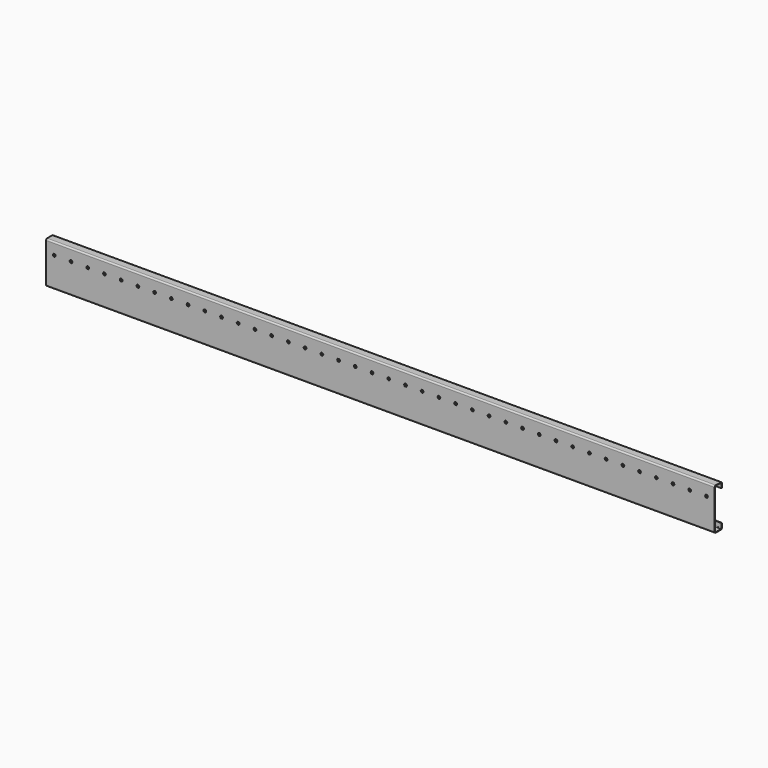
from build123d import *

# Parameters (mm, degrees)
F1_DEPTH = 1523.20625
F3_D     = 10.3124
F3_DEPTH = 38.1
F5_DEPTH = 3.175


with BuildPart() as f1:
    # F0 (on Right) → F1 (new body, symmetric)
    with BuildSketch(Plane.YZ):
        with BuildLine():
            Line((17.98066, 89.41816), (17.98066, 69.85))
            Line((17.98066, 69.85), (20.6375, 69.85))
            Line((20.6375, 69.85), (20.6375, 88.9))
            ThreePointArc((20.6375, 88.9), (18.777628, 93.390128), (14.2875, 95.25))
            Line((14.2875, 95.25), (-14.2875, 95.25))
            ThreePointArc((-14.2875, 95.25), (-18.777628, 93.390128), (-20.6375, 88.9))
            Line((-20.6375, 88.9), (-20.6375, -88.9))
            ThreePointArc((-20.6375, -88.9), (-18.777628, -93.390128), (-14.2875, -95.25))
            Line((-14.2875, -95.25), (14.2875, -95.25))
            ThreePointArc((14.2875, -95.25), (18.777628, -93.390128), (20.6375, -88.9))
            Line((20.6375, -88.9), (20.6375, -69.85))
            Line((20.6375, -69.85), (17.98066, -69.85))
            Line((17.98066, -69.85), (17.98066, -89.41816))
            ThreePointArc((17.98066, -89.41816), (17.050724, -91.663224), (14.80566, -92.59316))
            Line((14.80566, -92.59316), (-14.80566, -92.59316))
            ThreePointArc((-14.80566, -92.59316), (-17.050724, -91.663224), (-17.98066, -89.41816))
            Line((-17.98066, -89.41816), (-17.98066, 89.41816))
            ThreePointArc((-17.98066, 89.41816), (-17.050724, 91.663224), (-14.80566, 92.59316))
            Line((-14.80566, 92.59316), (14.80566, 92.59316))
            ThreePointArc((14.80566, 92.59316), (17.050724, 91.663224), (17.98066, 89.41816))
        make_face()
    extrude(amount=F1_DEPTH, both=True)

    # F3
    with Locations(Plane(origin=(0, 0, -95.25), x_dir=(1, 0, 0), z_dir=(0, 0, -1))):
        with Locations((-1447.8, 0), (-1371.6, 0), (-1295.4, 0), (-914.4, 0), (-838.2, 0), (-762, 0), (-685.8, 0), (-609.6, 0), (-533.4, 0), (-1219.2, 0), (-990.6, 0), (-1066.8, 0), (-1143, 0), (457.2, 0), (381, 0), (762, 0), (304.8, 0), (1447.8, 0), (228.6, 0), (1371.6, 0), (152.4, 0), (1295.4, 0), (76.2, 0), (0, 0), (-76.2, 0), (1219.2, 0), (685.8, 0), (-152.4, 0), (1143, 0), (609.6, 0), (-228.6, 0), (533.4, 0), (1066.8, 0), (-304.8, 0), (990.6, 0), (-381, 0), (914.4, 0), (-457.2, 0), (838.2, 0)):
            Hole(F3_D / 2, depth=F3_DEPTH)

    # F4 (on face) → F5 (cut)
    with BuildSketch(Plane.XZ.offset(20.6375)):
        Polygon((-1489.337038, 47.228125), (-1492.774077, 41.275), (-1489.337038, 35.321875), (-1482.462962, 35.321875), (-1479.025923, 41.275), (-1482.462962, 47.228125), align=None)
        Polygon((-1413.137038, 35.321875), (-1406.262962, 35.321875), (-1402.825923, 41.275), (-1406.262962, 47.228125), (-1413.137038, 47.228125), (-1416.574077, 41.275), align=None)
        Polygon((-1336.937038, 35.321875), (-1330.062962, 35.321875), (-1326.625923, 41.275), (-1330.062962, 47.228125), (-1336.937038, 47.228125), (-1340.374077, 41.275), align=None)
        Polygon((-1260.737038, 35.321875), (-1253.862962, 35.321875), (-1250.425923, 41.275), (-1253.862962, 47.228125), (-1260.737038, 47.228125), (-1264.174077, 41.275), align=None)
        Polygon((-1184.537038, 35.321875), (-1177.662962, 35.321875), (-1174.225923, 41.275), (-1177.662962, 47.228125), (-1184.537038, 47.228125), (-1187.974077, 41.275), align=None)
        Polygon((-1108.337038, 35.321875), (-1101.462962, 35.321875), (-1098.025923, 41.275), (-1101.462962, 47.228125), (-1108.337038, 47.228125), (-1111.774077, 41.275), align=None)
        Polygon((-1032.137038, 35.321875), (-1025.262962, 35.321875), (-1021.825923, 41.275), (-1025.262962, 47.228125), (-1032.137038, 47.228125), (-1035.574077, 41.275), align=None)
        Polygon((-955.937038, 35.321875), (-949.062962, 35.321875), (-945.625923, 41.275), (-949.062962, 47.228125), (-955.937038, 47.228125), (-959.374077, 41.275), align=None)
        Polygon((-879.737038, 35.321875), (-872.862962, 35.321875), (-869.425923, 41.275), (-872.862962, 47.228125), (-879.737038, 47.228125), (-883.174077, 41.275), align=None)
        Polygon((-803.537038, 35.321875), (-796.662962, 35.321875), (-793.225923, 41.275), (-796.662962, 47.228125), (-803.537038, 47.228125), (-806.974077, 41.275), align=None)
        Polygon((-727.337038, 35.321875), (-720.462962, 35.321875), (-717.025923, 41.275), (-720.462962, 47.228125), (-727.337038, 47.228125), (-730.774077, 41.275), align=None)
        Polygon((-651.137038, 35.321875), (-644.262962, 35.321875), (-640.825923, 41.275), (-644.262962, 47.228125), (-651.137038, 47.228125), (-654.574077, 41.275), align=None)
        Polygon((-574.937038, 35.321875), (-568.062962, 35.321875), (-564.625923, 41.275), (-568.062962, 47.228125), (-574.937038, 47.228125), (-578.374077, 41.275), align=None)
        Polygon((-498.737038, 35.321875), (-491.862962, 35.321875), (-488.425923, 41.275), (-491.862962, 47.228125), (-498.737038, 47.228125), (-502.174077, 41.275), align=None)
        Polygon((-422.537038, 35.321875), (-415.662962, 35.321875), (-412.225923, 41.275), (-415.662962, 47.228125), (-422.537038, 47.228125), (-425.974077, 41.275), align=None)
        Polygon((-346.337038, 35.321875), (-339.462962, 35.321875), (-336.025923, 41.275), (-339.462962, 47.228125), (-346.337038, 47.228125), (-349.774077, 41.275), align=None)
        Polygon((-270.137038, 35.321875), (-263.262962, 35.321875), (-259.825923, 41.275), (-263.262962, 47.228125), (-270.137038, 47.228125), (-273.574077, 41.275), align=None)
        Polygon((-193.937038, 35.321875), (-187.062962, 35.321875), (-183.625923, 41.275), (-187.062962, 47.228125), (-193.937038, 47.228125), (-197.374077, 41.275), align=None)
        Polygon((-117.737038, 35.321875), (-110.862962, 35.321875), (-107.425923, 41.275), (-110.862962, 47.228125), (-117.737038, 47.228125), (-121.174077, 41.275), align=None)
        Polygon((-41.537038, 35.321875), (-34.662962, 35.321875), (-31.225923, 41.275), (-34.662962, 47.228125), (-41.537038, 47.228125), (-44.974077, 41.275), align=None)
        Polygon((34.662962, 35.321875), (41.537038, 35.321875), (44.974077, 41.275), (41.537038, 47.228125), (34.662962, 47.228125), (31.225923, 41.275), align=None)
        Polygon((110.862962, 35.321875), (117.737038, 35.321875), (121.174077, 41.275), (117.737038, 47.228125), (110.862962, 47.228125), (107.425923, 41.275), align=None)
        Polygon((187.062962, 35.321875), (193.937038, 35.321875), (197.374077, 41.275), (193.937038, 47.228125), (187.062962, 47.228125), (183.625923, 41.275), align=None)
        Polygon((263.262962, 35.321875), (270.137038, 35.321875), (273.574077, 41.275), (270.137038, 47.228125), (263.262962, 47.228125), (259.825923, 41.275), align=None)
        Polygon((339.462962, 35.321875), (346.337038, 35.321875), (349.774077, 41.275), (346.337038, 47.228125), (339.462962, 47.228125), (336.025923, 41.275), align=None)
        Polygon((415.662962, 35.321875), (422.537038, 35.321875), (425.974077, 41.275), (422.537038, 47.228125), (415.662962, 47.228125), (412.225923, 41.275), align=None)
        Polygon((491.862962, 35.321875), (498.737038, 35.321875), (502.174077, 41.275), (498.737038, 47.228125), (491.862962, 47.228125), (488.425923, 41.275), align=None)
        Polygon((568.062962, 35.321875), (574.937038, 35.321875), (578.374077, 41.275), (574.937038, 47.228125), (568.062962, 47.228125), (564.625923, 41.275), align=None)
        Polygon((644.262962, 35.321875), (651.137038, 35.321875), (654.574077, 41.275), (651.137038, 47.228125), (644.262962, 47.228125), (640.825923, 41.275), align=None)
        Polygon((720.462962, 35.321875), (727.337038, 35.321875), (730.774077, 41.275), (727.337038, 47.228125), (720.462962, 47.228125), (717.025923, 41.275), align=None)
        Polygon((796.662962, 35.321875), (803.537038, 35.321875), (806.974077, 41.275), (803.537038, 47.228125), (796.662962, 47.228125), (793.225923, 41.275), align=None)
        Polygon((872.862962, 35.321875), (879.737038, 35.321875), (883.174077, 41.275), (879.737038, 47.228125), (872.862962, 47.228125), (869.425923, 41.275), align=None)
        Polygon((949.062962, 35.321875), (955.937038, 35.321875), (959.374077, 41.275), (955.937038, 47.228125), (949.062962, 47.228125), (945.625923, 41.275), align=None)
        Polygon((1025.262962, 35.321875), (1032.137038, 35.321875), (1035.574077, 41.275), (1032.137038, 47.228125), (1025.262962, 47.228125), (1021.825923, 41.275), align=None)
        Polygon((1101.462962, 35.321875), (1108.337038, 35.321875), (1111.774077, 41.275), (1108.337038, 47.228125), (1101.462962, 47.228125), (1098.025923, 41.275), align=None)
        Polygon((1177.662962, 35.321875), (1184.537038, 35.321875), (1187.974077, 41.275), (1184.537038, 47.228125), (1177.662962, 47.228125), (1174.225923, 41.275), align=None)
        Polygon((1253.862962, 35.321875), (1260.737038, 35.321875), (1264.174077, 41.275), (1260.737038, 47.228125), (1253.862962, 47.228125), (1250.425923, 41.275), align=None)
        Polygon((1330.062962, 35.321875), (1336.937038, 35.321875), (1340.374077, 41.275), (1336.937038, 47.228125), (1330.062962, 47.228125), (1326.625923, 41.275), align=None)
        Polygon((1406.262962, 35.321875), (1413.137038, 35.321875), (1416.574077, 41.275), (1413.137038, 47.228125), (1406.262962, 47.228125), (1402.825923, 41.275), align=None)
        Polygon((1482.462962, 35.321875), (1489.337038, 35.321875), (1492.774077, 41.275), (1489.337038, 47.228125), (1482.462962, 47.228125), (1479.025923, 41.275), align=None)
    extrude(amount=-F5_DEPTH, mode=Mode.SUBTRACT)


solid = f1.part
